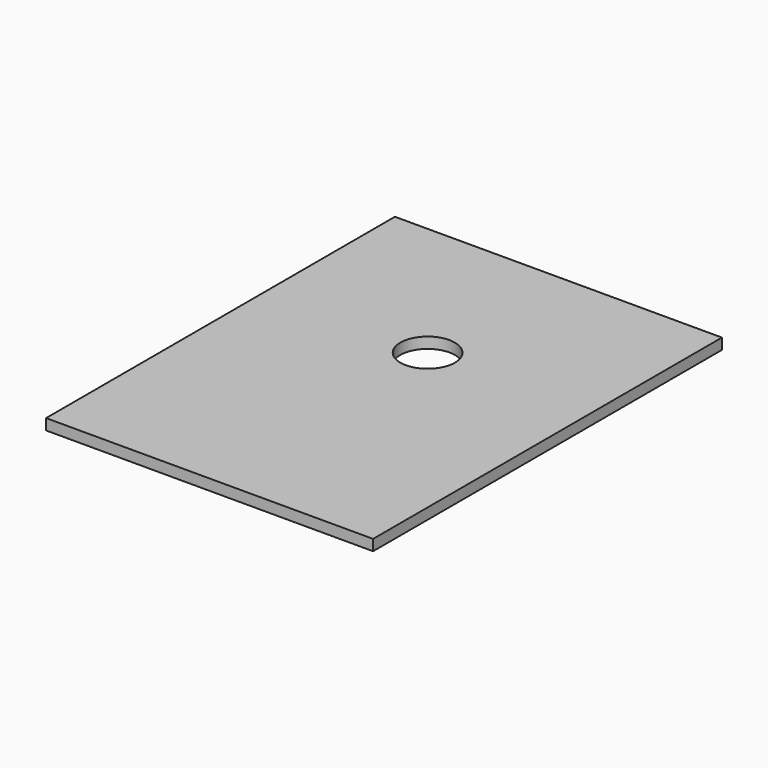
from build123d import *

# Parameters (mm, degrees)
SKETCH_W  = 60
SKETCH_H  = 80
SKETCH_R  = 5
PAD_DEPTH = 2


with BuildPart() as part:
    # Sketch → Pad (new body)
    with BuildSketch(Plane.XY):
        Rectangle(SKETCH_W, SKETCH_H)
        with Locations((0, 10)):
            Circle(SKETCH_R, mode=Mode.SUBTRACT)
    extrude(amount=PAD_DEPTH)


solid = part.part
